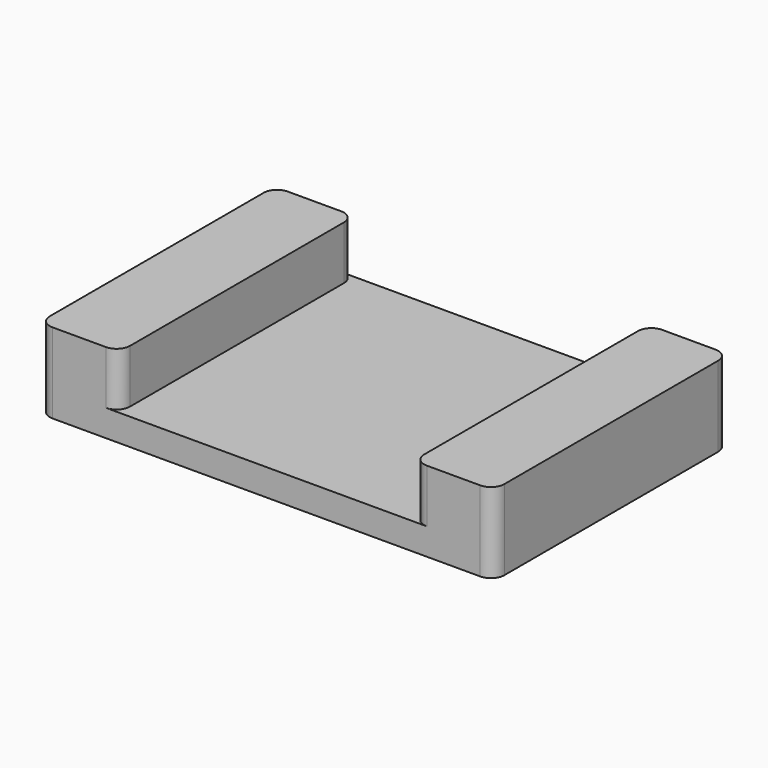
from build123d import *

# Parameters (mm, degrees)
F0_W     = 3
F0_H     = 11
F1_DEPTH = 3
F0_W_2   = 11
F2_DEPTH = 1
F3_R     = 0.5


with BuildPart() as f1:
    # F0 (on Top) → F1 (new body)
    with BuildSketch(Plane.XY):
        with Locations((-7, 0)):
            Rectangle(F0_W, F0_H)
        with Locations((7, 0)):
            Rectangle(F0_W, F0_H)
    extrude(amount=F1_DEPTH)

    # F0 (on Top) → F2 (join)
    with BuildSketch(Plane.XY):
        Rectangle(F0_W_2, F0_H)
    extrude(amount=F2_DEPTH)

    # F3
    f3_edges = [f1.edges().sort_by_distance(p)[0] for p in [
        (-5.5, -5.5, 2),
        (5.5, -5.5, 2),
        (8.5, -5.5, 1.5),
        (8.5, 5.5, 1.5),
        (-8.5, -5.5, 1.5),
        (-5.5, 5.5, 2),
        (-8.5, 5.5, 1.5),
        (5.5, 5.5, 2),
    ]]
    fillet(f3_edges, radius=F3_R)


solid = f1.part
